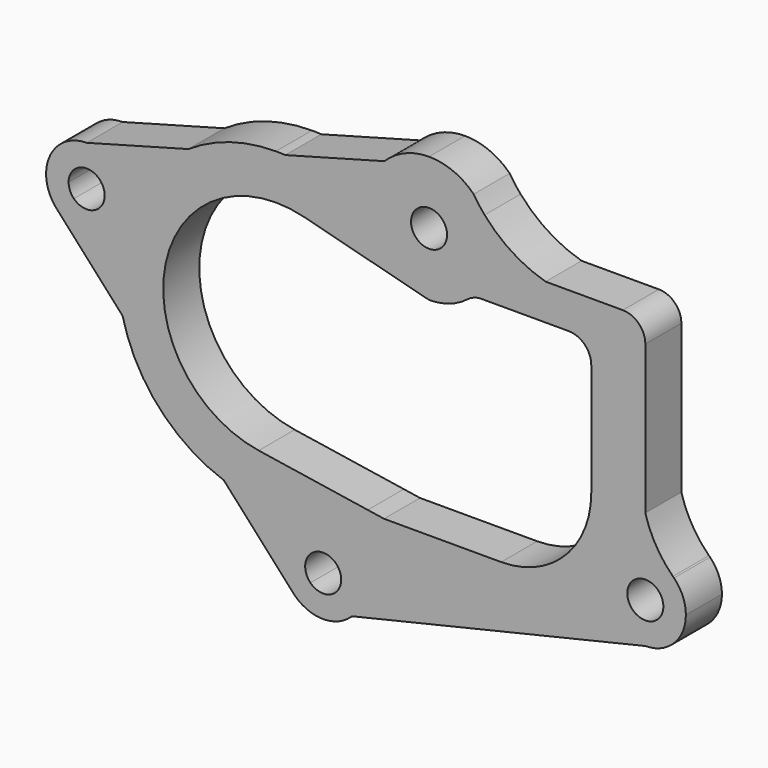
from build123d import *

# Parameters (mm, degrees)
F1_DEPTH = 10


with BuildPart() as f1:
    # F0 (on Front) → F1 (new body)
    with BuildSketch(Plane.XZ):
        with BuildLine():
            ThreePointArc((-3.8132029324, -24.7074782889), (-24.4836360039, 5.0548558862), (6.2836346687, 24.197436545))
            Line((6.2836346687, 24.197436545), (29.9921837161, 18.0407570777))
            ThreePointArc((29.9921837161, 18.0407570777), (25.6485360936, 23.8149658042), (20.2117633339, 28.5741950531))
            ThreePointArc((20.2117633339, 28.5741950531), (13.4284415586, 32.3214627965), (5.9867921367, 34.48417492))
            ThreePointArc((5.9867921367, 34.48417492), (3.7099457558, 34.537913127), (1.4437370332, 34.7642210193))
            Line((1.4437370332, 34.7642210193), (-19.4291119296, 29.1120183022))
            ThreePointArc((-19.4291119296, 29.1120183022), (-22.058033075, 27.1743109731), (-24.4948974278, 25))
            ThreePointArc((-24.4948974278, 25), (-32.6951149804, 12.4911751417), (-34.924423398, -2.298836732))
            ThreePointArc((-34.924423398, -2.298836732), (-34.3740398023, -4.617901554), (-34.292856399, -7))
            ThreePointArc((-34.292856399, -7), (-34.1640037989, -7.6040018691), (-34.0245137483, -8.2056361236))
            Line((-34.0245137483, -8.2056361236), (-11.5437640984, -33.0415119273))
            ThreePointArc((-11.5437640984, -33.0415119273), (-5.8543608765, -34.506904508), (0, -35))
            ThreePointArc((0, -35), (10.7115040799, -33.3206194472), (20.3950829231, -28.4436388769))
            Line((20.3950829231, -28.4436388769), (-3.8132029324, -24.7074782889))
        make_face()
        with BuildLine():
            ThreePointArc((-34.924423398, -2.298836732), (-32.6951149804, 12.4911751417), (-24.4948974278, 25))
            ThreePointArc((-24.4948974278, 25), (-30.9315093384, 22.3189567832), (-37.8973419055, 22.0105053873))
            ThreePointArc((-37.8973419055, 22.0105053873), (-34.3213307517, 18.6944689343), (-33, 14))
            ThreePointArc((-33, 14), (-35.6360389693, 7.6360389693), (-42, 5))
            ThreePointArc((-42, 5), (-37.6511624472, 2.1368221432), (-34.924423398, -2.298836732))
        make_face()
        with BuildLine():
            Line((-48.3639610307, 7.6360389693), (-34.0245137483, -8.2056361236))
            ThreePointArc((-34.0245137483, -8.2056361236), (-34.1640037989, -7.6040018691), (-34.292856399, -7))
            ThreePointArc((-34.292856399, -7), (-34.6883725424, -4.6601298652), (-34.924423398, -2.298836732))
            ThreePointArc((-34.924423398, -2.298836732), (-37.6511624472, 2.1368221432), (-42, 5))
            ThreePointArc((-42, 5), (-45.4441508913, 5.6850842074), (-48.3639610307, 7.6360389693))
        make_face()
        with BuildLine():
            ThreePointArc((-24.4948974278, 25), (-22.058033075, 27.1743109731), (-19.4291119296, 29.1120183022))
            Line((-19.4291119296, 29.1120183022), (-42, 23))
            ThreePointArc((-42, 23), (-39.8898517215, 22.7491299135), (-37.8973419055, 22.0105053873))
            ThreePointArc((-37.8973419055, 22.0105053873), (-30.9315093384, 22.3189567832), (-24.4948974278, 25))
        make_face()
        with BuildLine():
            Line((-44.8284271247, 11.1715728753), (-48.3639610307, 7.6360389693))
            ThreePointArc((-48.3639610307, 7.6360389693), (-45.4441508913, 5.6850842074), (-42, 5))
            ThreePointArc((-42, 5), (-35.6360389693, 7.6360389693), (-33, 14))
            ThreePointArc((-33, 14), (-34.3213307517, 18.6944689343), (-37.8973419055, 22.0105053873))
            ThreePointArc((-37.8973419055, 22.0105053873), (-39.9748437487, 22.3967346363), (-42, 23))
            ThreePointArc((-42, 23), (-48.3639610307, 20.3639610307), (-51, 14))
            Line((-51, 14), (-46, 14))
            ThreePointArc((-46, 14), (-42, 18), (-38, 14))
            ThreePointArc((-38, 14), (-40.4692662705, 10.30448187), (-44.8284271247, 11.1715728753))
        make_face()
        with BuildLine():
            ThreePointArc((-51, 14), (-50.3149157926, 10.5558491087), (-48.3639610307, 7.6360389693))
            Line((-48.3639610307, 7.6360389693), (-44.8284271247, 11.1715728753))
            ThreePointArc((-44.8284271247, 11.1715728753), (-45.69551813, 12.4692662705), (-46, 14))
            Line((-46, 14), (-51, 14))
        make_face()
        with BuildLine():
            ThreePointArc((-37.8973419055, 22.0105053873), (-39.8898517215, 22.7491299135), (-42, 23))
            ThreePointArc((-42, 23), (-39.9748437487, 22.3967346363), (-37.8973419055, 22.0105053873))
        make_face()
        with BuildLine():
            ThreePointArc((-34.0245137483, -8.2056361236), (-25.9484521352, -23.4878230534), (-11.5437640984, -33.0415119273))
            Line((-11.5437640984, -33.0415119273), (-34.0245137483, -8.2056361236))
        make_face()
        with BuildLine():
            ThreePointArc((25.5, -35), (21.1329938541, -37.8036590333), (19.4051952997, -42.6971198545))
            ThreePointArc((19.4051952997, -42.6971198545), (19.4762675344, -43.3468375767), (19.5, -44))
            ThreePointArc((19.5, -44), (18.8149157926, -47.4441508913), (16.8639610307, -50.3639610307))
            Line((16.8639610307, -50.3639610307), (82, -35))
            Line((82, -35), (25.5, -35))
        make_face()
        with BuildLine():
            ThreePointArc((10.5, -35), (5.0043375198, -36.8727499059), (1.7957864602, -41.711623577))
            ThreePointArc((1.7957864602, -41.711623577), (1.7030233208, -42.8629376854), (1.5, -44))
            ThreePointArc((1.5, -44), (2.0241485384, -47.0265396083), (3.5355426668, -49.7005555918))
            Line((3.5355426668, -49.7005555918), (4.1360389693, -50.3639610307))
            Line((4.1360389693, -50.3639610307), (7.6715728753, -46.8284271247))
            ThreePointArc((7.6715728753, -46.8284271247), (8.9692662705, -40.30448187), (14.5, -44))
            ThreePointArc((14.5, -44), (14.19551813, -45.5307337295), (13.3284271247, -46.8284271247))
            Line((13.3284271247, -46.8284271247), (16.8639610307, -50.3639610307))
            ThreePointArc((16.8639610307, -50.3639610307), (18.8149157926, -47.4441508913), (19.5, -44))
            ThreePointArc((19.5, -44), (19.4259596727, -43.3504982525), (19.4051952997, -42.6971198545))
            ThreePointArc((19.4051952997, -42.6971198545), (16.3853240646, -37.190964778), (10.5, -35))
        make_face()
        with BuildLine():
            Line((25.5, -35), (10.5, -35))
            ThreePointArc((10.5, -35), (16.3853240646, -37.190964778), (19.4051952997, -42.6971198545))
            ThreePointArc((19.4051952997, -42.6971198545), (21.1329938541, -37.8036590333), (25.5, -35))
        make_face()
        with BuildLine():
            Line((7.6715728753, -46.8284271247), (4.1360389693, -50.3639610307))
            ThreePointArc((4.1360389693, -50.3639610307), (10.5, -53), (16.8639610307, -50.3639610307))
            Line((16.8639610307, -50.3639610307), (13.3284271247, -46.8284271247))
            ThreePointArc((13.3284271247, -46.8284271247), (10.5, -48), (7.6715728753, -46.8284271247))
        make_face()
        with BuildLine():
            ThreePointArc((1.7957864602, -41.711623577), (1.3942537218, -38.2230037667), (0, -35))
            ThreePointArc((0, -35), (-5.8543608765, -34.506904508), (-11.5437640984, -33.0415119273))
            Line((-11.5437640984, -33.0415119273), (3.5355426668, -49.7005555918))
            ThreePointArc((3.5355426668, -49.7005555918), (2.0241485384, -47.0265396083), (1.5, -44))
            ThreePointArc((1.5, -44), (1.5742529204, -42.8462933341), (1.7957864602, -41.711623577))
        make_face()
        with BuildLine():
            ThreePointArc((1.5, -44), (1.7030233208, -42.8629376854), (1.7957864602, -41.711623577))
            ThreePointArc((1.7957864602, -41.711623577), (1.5742529204, -42.8462933341), (1.5, -44))
        make_face()
        with BuildLine():
            Line((70, 16), (70, 0))
            Line((70, 0), (70, -9))
            ThreePointArc((70, -9), (64.1421356237, -23.1421356237), (50, -29))
            Line((50, -29), (24, -29))
            Line((24, -29), (20.3950829231, -28.4436388769))
            ThreePointArc((20.3950829231, -28.4436388769), (10.7115040799, -33.3206194472), (0, -35))
            ThreePointArc((0, -35), (1.3942537218, -38.2230037667), (1.7957864602, -41.711623577))
            ThreePointArc((1.7957864602, -41.711623577), (5.0043375198, -36.8727499059), (10.5, -35))
            Line((10.5, -35), (25.5, -35))
            Line((25.5, -35), (82, -35))
            ThreePointArc((82, -35), (73, -26), (82, -17))
            Line((82, -17), (82, -9))
            Line((82, -9), (82, 21))
            Line((82, 21), (82, 24))
            ThreePointArc((82, 24), (80.5355339059, 27.5355339059), (77, 29))
            Line((77, 29), (59.8564064606, 29))
            Line((59.8564064606, 29), (47.8564064606, 29))
            ThreePointArc((47.8564064606, 29), (46.4852813742, 24.666142644), (43.7979589711, 21))
            Line((43.7979589711, 21), (45.6619037897, 21))
            Line((45.6619037897, 21), (65, 21))
            ThreePointArc((65, 21), (68.5355339059, 19.5355339059), (70, 16))
        make_face()
        with BuildLine():
            ThreePointArc((20.2117633339, 28.5741950531), (25.6485360936, 23.8149658042), (29.9921837161, 18.0407570777))
            Line((29.9921837161, 18.0407570777), (33.3124983235, 17.1785316953))
            ThreePointArc((33.3124983235, 17.1785316953), (34.0929969479, 17.0407500145), (34.8854615113, 17.0280295623))
            ThreePointArc((34.8854615113, 17.0280295623), (38.9589168635, 17.9076685216), (42.5929817398, 19.9473684211))
            ThreePointArc((42.5929817398, 19.9473684211), (43.210520255, 20.4564561635), (43.7979589711, 21))
            ThreePointArc((43.7979589711, 21), (46.4852813742, 24.666142644), (47.8564064606, 29))
            ThreePointArc((47.8564064606, 29), (47.7860358491, 33.4382812734), (46.3297963636, 37.6314494368))
            ThreePointArc((46.3297963636, 37.6314494368), (45.0551489787, 39.221227134), (43.8994949366, 40.8994949366))
            ThreePointArc((43.8994949366, 40.8994949366), (39.3575680531, 43.9343134552), (34, 45))
            ThreePointArc((34, 45), (28.6424319469, 43.9343134552), (24.1005050634, 40.8994949366))
            ThreePointArc((24.1005050634, 40.8994949366), (20.6487674193, 35.2124326197), (20.2117633339, 28.5741950531))
        make_face()
        with BuildLine():
            ThreePointArc((38, 31), (31.1715728753, 28.1715728753), (34, 35))
            ThreePointArc((34, 35), (36.8284271247, 33.8284271247), (38, 31))
        make_face(mode=Mode.SUBTRACT)
        with BuildLine():
            ThreePointArc((5.9867921367, 34.48417492), (13.4284415586, 32.3214627965), (20.2117633339, 28.5741950531))
            ThreePointArc((20.2117633339, 28.5741950531), (20.6487674193, 35.2124326197), (24.1005050634, 40.8994949366))
            ThreePointArc((24.1005050634, 40.8994949366), (15.5712017516, 36.202283929), (5.9867921367, 34.48417492))
        make_face()
        with BuildLine():
            ThreePointArc((2.0849141286, 34.9378467149), (4.0422227837, 34.7657940362), (5.9867921367, 34.48417492))
            ThreePointArc((5.9867921367, 34.48417492), (15.5712017516, 36.202283929), (24.1005050634, 40.8994949366))
            Line((24.1005050634, 40.8994949366), (2.0849141286, 34.9378467149))
        make_face()
        with BuildLine():
            Line((-19.4291119296, 29.1120183022), (1.4437370332, 34.7642210193))
            ThreePointArc((1.4437370332, 34.7642210193), (0.7204311681, 34.8733092449), (0, 35))
            ThreePointArc((0, 35), (-10.1508462559, 33.4956761432), (-19.4291119296, 29.1120183022))
        make_face()
        with BuildLine():
            ThreePointArc((46.3297963636, 37.6314494368), (47.7860358491, 33.4382812734), (47.8564064606, 29))
            Line((47.8564064606, 29), (59.8564064606, 29))
            ThreePointArc((59.8564064606, 29), (52.4615601585, 32.3260169804), (46.3297963636, 37.6314494368))
        make_face()
        with BuildLine():
            ThreePointArc((82, -17), (73, -26), (82, -35))
            ThreePointArc((82, -35), (88.3639610307, -32.3639610307), (91, -26))
            ThreePointArc((91, -26), (90.3149157926, -22.5558491087), (88.3639610307, -19.6360389693))
            ThreePointArc((88.3639610307, -19.6360389693), (88.2394582184, -19.5171057842), (88.1158492341, -19.3972438978))
            ThreePointArc((88.1158492341, -19.3972438978), (85.2844478288, -17.6207158743), (82, -17))
        make_face()
        with BuildLine():
            ThreePointArc((86, -26), (78.30448187, -27.5307337295), (84.8284271247, -23.1715728753))
            ThreePointArc((84.8284271247, -23.1715728753), (85.69551813, -24.4692662705), (86, -26))
        make_face(mode=Mode.SUBTRACT)
        with BuildLine():
            Line((82, -9), (82, -17))
            ThreePointArc((82, -17), (85.2844478288, -17.6207158743), (88.1158492341, -19.3972438978))
            ThreePointArc((88.1158492341, -19.3972438978), (84.3641673141, -14.6067026972), (82, -9))
        make_face()
        with BuildLine():
            ThreePointArc((1.4437370332, 34.7642210193), (3.7099457558, 34.537913127), (5.9867921367, 34.48417492))
            ThreePointArc((5.9867921367, 34.48417492), (4.0422227837, 34.7657940362), (2.0849141286, 34.9378467149))
            Line((2.0849141286, 34.9378467149), (1.4437370332, 34.7642210193))
        make_face()
        with BuildLine():
            Line((1.4437370332, 34.7642210193), (2.0849141286, 34.9378467149))
            ThreePointArc((2.0849141286, 34.9378467149), (1.0429201737, 34.9844582281), (0, 35))
            ThreePointArc((0, 35), (0.7204311681, 34.8733092449), (1.4437370332, 34.7642210193))
        make_face()
        with BuildLine():
            ThreePointArc((-34.924423398, -2.298836732), (-34.6883725424, -4.6601298652), (-34.292856399, -7))
            ThreePointArc((-34.292856399, -7), (-34.3740398023, -4.617901554), (-34.924423398, -2.298836732))
        make_face()
        with BuildLine():
            ThreePointArc((19.5, -44), (19.4762675344, -43.3468375767), (19.4051952997, -42.6971198545))
            ThreePointArc((19.4051952997, -42.6971198545), (19.4259596727, -43.3504982525), (19.5, -44))
        make_face()
        with BuildLine():
            ThreePointArc((42.5929817398, 19.9473684211), (44.0396895784, 20.7295265146), (45.6619037897, 21))
            Line((45.6619037897, 21), (43.7979589711, 21))
            ThreePointArc((43.7979589711, 21), (43.210520255, 20.4564561635), (42.5929817398, 19.9473684211))
        make_face()
    extrude(amount=F1_DEPTH)


solid = f1.part
